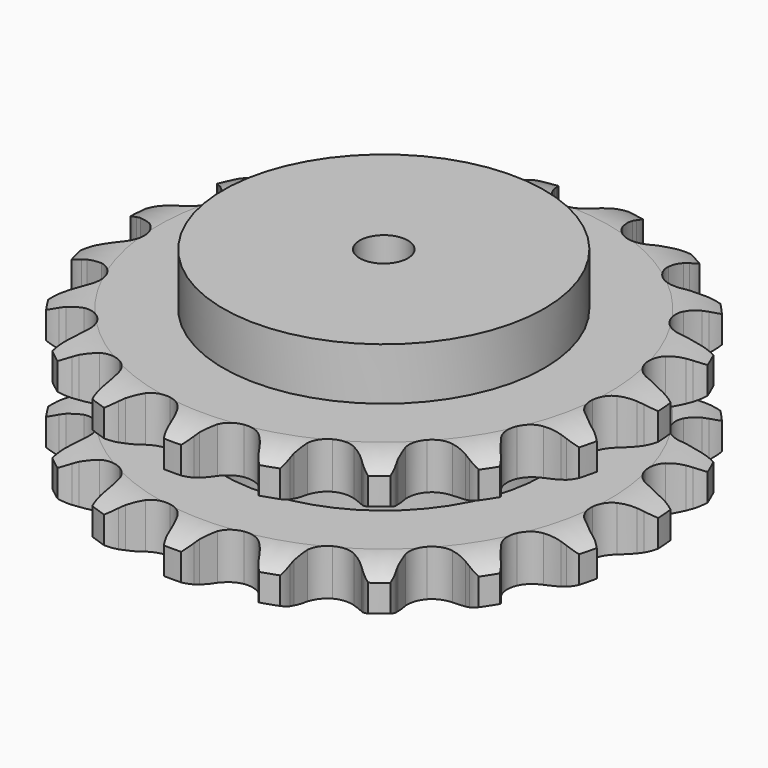
from build123d import *

# Parameters (mm, degrees)
PAD_DEPTH         = 87.4
SKETCH001_R       = 100
PAD001_DEPTH      = 120
SKETCH002_R       = 15
POCKET_DEPTH      = 0.001
POCKET_DEPTH_BACK = 120.001


with BuildPart() as part:
    # Sprocket → Pad (new body)
    with BuildSketch(Plane.XY):
        with BuildLine():
            ThreePointArc((-28.118506, 168.504967), (-22.167734, 163.609901), (-18.055255, 157.093701))
            Line((-18.055255, 157.093701), (-16.654706, 153.810994))
            ThreePointArc((-16.654706, 153.810994), (-14.395398, 149.351566), (-11.571453, 145.226485))
            ThreePointArc((-11.571453, 145.226485), (-6.432893, 141.082917), (0, 139.602434))
            ThreePointArc((0, 139.602434), (6.432893, 141.082917), (11.571453, 145.226485))
            ThreePointArc((11.571453, 145.226485), (14.395398, 149.351566), (16.654706, 153.810994))
            Line((16.654706, 153.810994), (18.055255, 157.093701))
            ThreePointArc((18.055255, 157.093701), (22.167734, 163.609901), (28.118506, 168.504967))
            ThreePointArc((28.118506, 168.504967), (32.157423, 161.942917), (33.93127, 154.444462))
            Line((33.93127, 154.444462), (34.19004, 150.884864))
            ThreePointArc((34.19004, 150.884864), (34.878958, 145.933465), (36.210483, 141.114958))
            ThreePointArc((36.210483, 141.114958), (39.725207, 135.527413), (45.328836, 132.038389))
            ThreePointArc((45.328836, 132.038389), (51.89389, 131.349898), (58.099442, 133.600469))
            Line((58.099442, 133.600469), (65.694656, 140.069316))
            ThreePointArc((65.694656, 140.069316), (66.858874, 141.422376), (68.085213, 142.719399))
            ThreePointArc((68.085213, 142.719399), (74.090673, 147.547214), (81.308441, 150.244839))
            ThreePointArc((81.308441, 150.244839), (82.997825, 142.726905), (82.240815, 135.05877))
            Line((82.240815, 135.05877), (81.329765, 131.608018))
            ThreePointArc((81.329765, 131.608018), (80.373639, 126.701208), (80.068451, 121.711436))
            ThreePointArc((80.068451, 121.711436), (81.578464, 115.28541), (85.74559, 110.165936))
            ThreePointArc((85.74559, 110.165936), (91.731378, 107.38308), (98.331456, 107.496769))
            Line((98.331456, 107.496769), (107.615571, 111.148954))
            ThreePointArc((107.615571, 111.148954), (109.156046, 112.050681), (110.737081, 112.879236))
            ThreePointArc((110.737081, 112.879236), (117.984738, 115.495497), (125.687345, 115.703351))
            ThreePointArc((125.687345, 115.703351), (124.844124, 108.044218), (121.638292, 101.037365))
            Line((121.638292, 101.037365), (119.656147, 98.069401))
            ThreePointArc((119.656147, 98.069401), (117.158588, 93.738909), (115.24976, 89.118591))
            ThreePointArc((115.24976, 89.118591), (114.59143, 82.550444), (116.870478, 76.355294))
            ThreePointArc((116.870478, 76.355294), (121.628348, 71.779639), (127.90773, 69.744126))
            Line((127.90773, 69.744126), (137.874668, 70.183878))
            ThreePointArc((137.874668, 70.183878), (139.624467, 70.536556), (141.388869, 70.806856))
            ThreePointArc((141.388869, 70.806856), (149.093326, 70.92805), (156.446074, 68.623611))
            ThreePointArc((156.446074, 68.623611), (153.161625, 61.653263), (147.854372, 56.066993))
            Line((147.854372, 56.066993), (145.01593, 53.903443))
            ThreePointArc((145.01593, 53.903443), (141.247587, 50.618545), (137.941969, 46.868364))
            ThreePointArc((137.941969, 46.868364), (135.186635, 40.869857), (135.330637, 34.270372))
            ThreePointArc((135.330637, 34.270372), (138.344999, 28.39776), (143.623217, 24.433625))
            Line((143.623217, 24.433625), (153.192907, 21.613291))
            ThreePointArc((153.192907, 21.613291), (154.96241, 21.3787), (156.718978, 21.061454))
            ThreePointArc((156.718978, 21.061454), (164.045339, 18.674449), (170.251444, 14.107437))
            ThreePointArc((170.251444, 14.107437), (164.881687, 8.581221), (158.048137, 5.020892))
            Line((158.048137, 5.020892), (154.660986, 3.89621))
            ThreePointArc((154.660986, 3.89621), (150.030217, 2.012876), (145.686026, -0.460778))
            ThreePointArc((145.686026, -0.460778), (141.132272, -5.239613), (139.125621, -11.528278))
            ThreePointArc((139.125621, -11.528278), (140.069823, -18.061457), (143.7749, -23.524639))
            Line((143.7749, -23.524639), (151.910317, -29.299433))
            ThreePointArc((151.910317, -29.299433), (153.507772, -30.095869), (155.066155, -30.966282))
            ThreePointArc((155.066155, -30.966282), (161.220494, -35.602818), (165.607429, -41.937497))
            ThreePointArc((165.607429, -41.937497), (158.734261, -45.420729), (151.114934, -46.5693))
            Line((151.114934, -46.5693), (147.546124, -46.533237))
            ThreePointArc((147.546124, -46.533237), (142.554746, -46.810919), (137.642741, -47.739987))
            ThreePointArc((137.642741, -47.739987), (131.784036, -50.78129), (127.844185, -56.077659))
            ThreePointArc((127.844185, -56.077659), (126.615908, -62.563435), (128.346342, -68.933642))
            Line((128.346342, -68.933642), (134.165886, -77.037108))
            ThreePointArc((134.165886, -77.037108), (135.418185, -78.309084), (136.609507, -79.638342))
            ThreePointArc((136.609507, -79.638342), (140.924906, -86.021968), (143.017279, -93.437852))
            ThreePointArc((143.017279, -93.437852), (135.385514, -94.500639), (127.806083, -93.112986))
            Line((127.806083, -93.112986), (124.442351, -91.920086))
            ThreePointArc((124.442351, -91.920086), (119.631256, -90.562025), (114.683729, -89.845827))
            ThreePointArc((114.683729, -89.845827), (108.154956, -90.820026), (102.708849, -94.550156))
            ThreePointArc((102.708849, -94.550156), (99.441195, -100.285693), (99.009466, -106.872617))
            Line((99.009466, -106.872617), (101.882501, -116.426617))
            ThreePointArc((101.882501, -116.426617), (102.653936, -118.036295), (103.3491, -119.680351))
            ThreePointArc((103.3491, -119.680351), (105.357919, -127.119303), (104.928987, -134.812766))
            ThreePointArc((104.928987, -134.812766), (97.365646, -133.339938), (90.64746, -129.566435))
            Line((90.64746, -129.566435), (87.853318, -127.345968))
            ThreePointArc((87.853318, -127.345968), (83.743864, -124.49933), (79.296956, -122.215479))
            ThreePointArc((79.296956, -122.215479), (72.805608, -121.017004), (66.443415, -122.776676))
            ThreePointArc((66.443415, -122.776676), (61.490486, -127.140441), (58.943378, -133.230284))
            Line((58.943378, -133.230284), (58.558565, -143.199495))
            ThreePointArc((58.558565, -143.199495), (58.765541, -144.972441), (58.889214, -146.753138))
            ThreePointArc((58.889214, -146.753138), (58.373766, -154.441289), (55.470012, -161.578625))
            ThreePointArc((55.470012, -161.578625), (48.794699, -157.729786), (43.665778, -151.97935))
            Line((43.665778, -151.97935), (41.744015, -148.971938))
            ThreePointArc((41.744015, -148.971938), (38.781524, -144.945201), (35.317127, -141.341186))
            ThreePointArc((35.317127, -141.341186), (29.566642, -138.099911), (22.977805, -137.698439))
            ThreePointArc((22.977805, -137.698439), (16.876328, -140.217549), (12.48986, -145.150384))
            Line((12.48986, -145.150384), (8.8889, -154.454487))
            ThreePointArc((8.8889, -154.454487), (8.508987, -156.198574), (8.047768, -157.922945))
            ThreePointArc((8.047768, -157.922945), (5.06391, -165.027164), (0, -170.834932))
            ThreePointArc((0, -170.834932), (-5.06391, -165.027164), (-8.047768, -157.922945))
            Line((-8.047768, -157.922945), (-8.8889, -154.454487))
            ThreePointArc((-8.8889, -154.454487), (-10.383396, -149.68401), (-12.48986, -145.150384))
            ThreePointArc((-12.48986, -145.150384), (-16.876328, -140.217549), (-22.977805, -137.698439))
            ThreePointArc((-22.977805, -137.698439), (-29.566642, -138.099911), (-35.317127, -141.341186))
            Line((-35.317127, -141.341186), (-41.744015, -148.971938))
            ThreePointArc((-41.744015, -148.971938), (-42.669648, -150.498168), (-43.665778, -151.97935))
            ThreePointArc((-43.665778, -151.97935), (-48.794699, -157.729786), (-55.470012, -161.578625))
            ThreePointArc((-55.470012, -161.578625), (-58.373766, -154.441289), (-58.889214, -146.753138))
            Line((-58.889214, -146.753138), (-58.558565, -143.199495))
            ThreePointArc((-58.558565, -143.199495), (-58.423113, -138.202234), (-58.943378, -133.230284))
            ThreePointArc((-58.943378, -133.230284), (-61.490486, -127.140441), (-66.443415, -122.776676))
            ThreePointArc((-66.443415, -122.776676), (-72.805608, -121.017004), (-79.296956, -122.215479))
            Line((-79.296956, -122.215479), (-87.853318, -127.345968))
            ThreePointArc((-87.853318, -127.345968), (-89.224364, -128.48895), (-90.64746, -129.566435))
            ThreePointArc((-90.64746, -129.566435), (-97.365646, -133.339938), (-104.928987, -134.812766))
            ThreePointArc((-104.928987, -134.812766), (-105.357919, -127.119303), (-103.3491, -119.680351))
            Line((-103.3491, -119.680351), (-101.882501, -116.426617))
            ThreePointArc((-101.882501, -116.426617), (-100.13178, -111.744102), (-99.009466, -106.872617))
            ThreePointArc((-99.009466, -106.872617), (-99.441195, -100.285693), (-102.708849, -94.550156))
            ThreePointArc((-102.708849, -94.550156), (-108.154956, -90.820026), (-114.683729, -89.845827))
            Line((-114.683729, -89.845827), (-124.442351, -91.920086))
            ThreePointArc((-124.442351, -91.920086), (-126.110236, -92.555961), (-127.806083, -93.112986))
            ThreePointArc((-127.806083, -93.112986), (-135.385514, -94.500639), (-143.017279, -93.437852))
            ThreePointArc((-143.017279, -93.437852), (-140.924906, -86.021968), (-136.609507, -79.638342))
            Line((-136.609507, -79.638342), (-134.165886, -77.037108))
            ThreePointArc((-134.165886, -77.037108), (-130.989615, -73.176763), (-128.346342, -68.933642))
            ThreePointArc((-128.346342, -68.933642), (-126.615908, -62.563435), (-127.844185, -56.077659))
            ThreePointArc((-127.844185, -56.077659), (-131.784036, -50.78129), (-137.642741, -47.739987))
            Line((-137.642741, -47.739987), (-147.546124, -46.533237))
            ThreePointArc((-147.546124, -46.533237), (-149.330107, -46.593097), (-151.114934, -46.5693))
            ThreePointArc((-151.114934, -46.5693), (-158.734261, -45.420729), (-165.607429, -41.937497))
            ThreePointArc((-165.607429, -41.937497), (-161.220494, -35.602818), (-155.066155, -30.966282))
            Line((-155.066155, -30.966282), (-151.910317, -29.299433))
            ThreePointArc((-151.910317, -29.299433), (-147.652692, -26.679585), (-143.7749, -23.524639))
            ThreePointArc((-143.7749, -23.524639), (-140.069823, -18.061457), (-139.125621, -11.528278))
            ThreePointArc((-139.125621, -11.528278), (-141.132272, -5.239613), (-145.686026, -0.460778))
            Line((-145.686026, -0.460778), (-154.660986, 3.89621))
            ThreePointArc((-154.660986, 3.89621), (-156.367743, 4.418852), (-158.048137, 5.020892))
            ThreePointArc((-158.048137, 5.020892), (-164.881687, 8.581221), (-170.251444, 14.107437))
            ThreePointArc((-170.251444, 14.107437), (-164.045339, 18.674449), (-156.718978, 21.061454))
            Line((-156.718978, 21.061454), (-153.192907, 21.613291))
            ThreePointArc((-153.192907, 21.613291), (-148.315309, 22.708739), (-143.623217, 24.433625))
            ThreePointArc((-143.623217, 24.433625), (-138.344999, 28.39776), (-135.330637, 34.270372))
            ThreePointArc((-135.330637, 34.270372), (-135.186635, 40.869857), (-137.941969, 46.868364))
            Line((-137.941969, 46.868364), (-145.01593, 53.903443))
            ThreePointArc((-145.01593, 53.903443), (-146.460509, 54.95195), (-147.854372, 56.066993))
            ThreePointArc((-147.854372, 56.066993), (-153.161625, 61.653263), (-156.446074, 68.623611))
            ThreePointArc((-156.446074, 68.623611), (-149.093326, 70.92805), (-141.388869, 70.806856))
            Line((-141.388869, 70.806856), (-137.874668, 70.183878))
            ThreePointArc((-137.874668, 70.183878), (-132.905661, 69.636219), (-127.90773, 69.744126))
            ThreePointArc((-127.90773, 69.744126), (-121.628348, 71.779639), (-116.870478, 76.355294))
            ThreePointArc((-116.870478, 76.355294), (-114.59143, 82.550444), (-115.24976, 89.118591))
            Line((-115.24976, 89.118591), (-119.656147, 98.069401))
            ThreePointArc((-119.656147, 98.069401), (-120.682006, 99.530151), (-121.638292, 101.037365))
            ThreePointArc((-121.638292, 101.037365), (-124.844124, 108.044218), (-125.687345, 115.703351))
            ThreePointArc((-125.687345, 115.703351), (-117.984738, 115.495497), (-110.737081, 112.879236))
            Line((-110.737081, 112.879236), (-107.615571, 111.148954))
            ThreePointArc((-107.615571, 111.148954), (-103.093623, 109.017534), (-98.331456, 107.496769))
            ThreePointArc((-98.331456, 107.496769), (-91.731378, 107.38308), (-85.74559, 110.165936))
            ThreePointArc((-85.74559, 110.165936), (-81.578464, 115.28541), (-80.068451, 121.711436))
            Line((-80.068451, 121.711436), (-81.329765, 131.608018))
            ThreePointArc((-81.329765, 131.608018), (-81.825735, 133.322716), (-82.240815, 135.05877))
            ThreePointArc((-82.240815, 135.05877), (-82.997825, 142.726905), (-81.308441, 150.244839))
            ThreePointArc((-81.308441, 150.244839), (-74.090673, 147.547214), (-68.085213, 142.719399))
            Line((-68.085213, 142.719399), (-65.694656, 140.069316))
            ThreePointArc((-65.694656, 140.069316), (-62.10979, 136.585108), (-58.099442, 133.600469))
            ThreePointArc((-58.099442, 133.600469), (-51.89389, 131.349898), (-45.328836, 132.038389))
            ThreePointArc((-45.328836, 132.038389), (-39.725207, 135.527413), (-36.210483, 141.114958))
            Line((-36.210483, 141.114958), (-34.19004, 150.884864))
            ThreePointArc((-34.19004, 150.884864), (-34.102376, 152.667696), (-33.93127, 154.444462))
            ThreePointArc((-33.93127, 154.444462), (-32.157423, 161.942917), (-28.118506, 168.504967))
        make_face()
    extrude(amount=PAD_DEPTH)

    # Sketch → Groove (revolve, cut)
    with BuildSketch(Plane.XZ):
        with BuildLine():
            ThreePointArc((140.55, 0), (152.919317, 1.522732), (164.55, 6))
            Line((164.55, 6), (164.55, 22.8))
            ThreePointArc((164.55, 22.8), (152.919317, 27.277268), (140.55, 28.8))
            Line((100, 28.8), (140.55, 28.8))
            Line((100, 58.6), (100, 28.8))
            Line((140.55, 58.6), (100, 58.6))
            ThreePointArc((140.55, 58.6), (152.919317, 60.122732), (164.55, 64.6))
            Line((164.55, 64.6), (164.55, 81.4))
            ThreePointArc((164.55, 81.4), (152.919317, 85.877268), (140.55, 87.4))
            Line((140.55, 87.4), (174.55, 87.4))
            Line((174.55, 87.4), (174.55, 0))
            Line((140.55, 0), (174.55, 0))
        make_face()
    revolve(axis=Axis((0, 0, 0), (0, 0, 1)), mode=Mode.SUBTRACT)

    # Sketch001 → Pad001 (join)
    with BuildSketch(Plane.XY):
        Circle(SKETCH001_R)
    extrude(amount=PAD001_DEPTH)

    # Sketch002 → Pocket (cut, two sides)
    with BuildSketch(Plane.XY) as pocket_sk:
        Circle(SKETCH002_R)
    extrude(amount=-POCKET_DEPTH, mode=Mode.SUBTRACT)
    extrude(pocket_sk.sketch, amount=POCKET_DEPTH_BACK, mode=Mode.SUBTRACT)


solid = part.part
